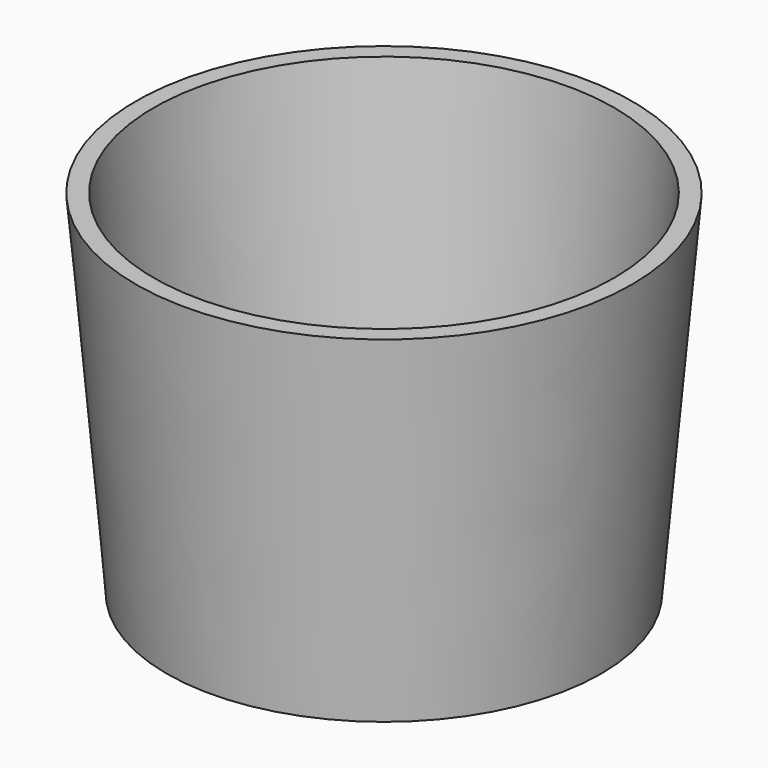
from build123d import *

# Parameters (mm, degrees)
F0_R     = 31.1350246104
F1_DEPTH = 50.546
F1_TAPER = -5
F2_T     = -2.54


with BuildPart() as f1:
    # F0 (on Top) → F1 (new body)
    with BuildSketch(Plane.XY):
        Circle(F0_R)
    extrude(amount=F1_DEPTH, taper=F1_TAPER)

    # F2
    f2_openings = [f1.faces().sort_by_distance(p)[0] for p in [
        (0, 0, 50.546),
    ]]
    offset(amount=F2_T, openings=f2_openings, kind=Kind.INTERSECTION)


solid = f1.part
